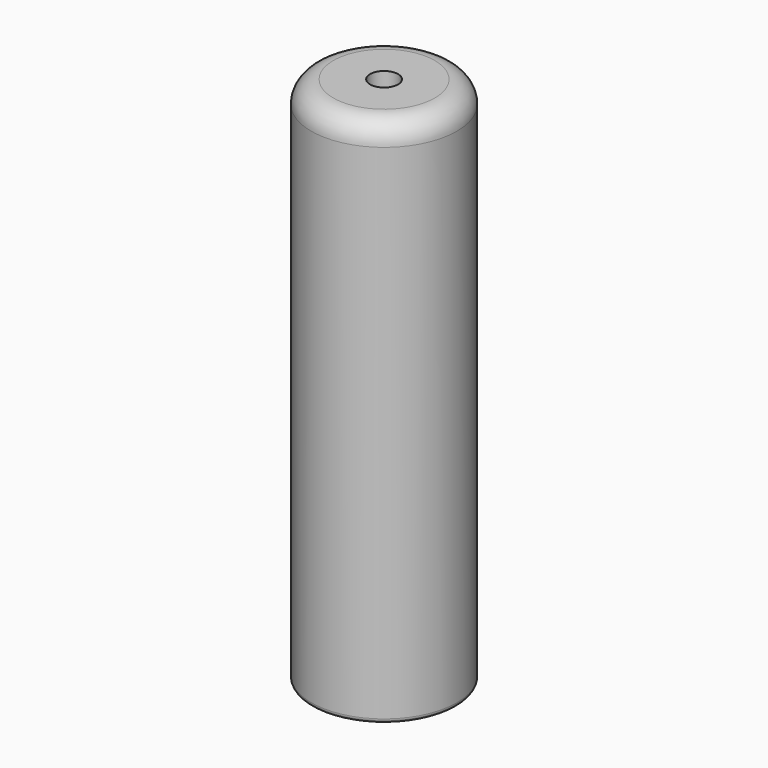
from build123d import *

# Parameters (mm, degrees)
F0_R     = 16.5
F0_R_2   = 14.5
F1_DEPTH = 120
F2_R     = 14.5
F3_DEPTH = 5
F5_R     = 5
F6_R     = 1
F4_R     = 3.175
F7_DEPTH = 25


with BuildPart() as f1:
    # F0 (on Top) → F1 (new body)
    with BuildSketch(Plane.XY):
        Circle(F0_R)
        Circle(F0_R_2, mode=Mode.SUBTRACT)
    extrude(amount=F1_DEPTH)

    # F2 (on face) → F3 (join)
    with BuildSketch(Plane.XY.offset(120)):
        Circle(F2_R)
    extrude(amount=-F3_DEPTH)

    # F5
    f5_edges = [f1.edges().sort_by_distance(p)[0] for p in [
        (-16.5, 0, 120),
    ]]
    fillet(f5_edges, radius=F5_R)

    # F6
    f6_edges = [f1.edges().sort_by_distance(p)[0] for p in [
        (-16.5, 0, 0),
    ]]
    fillet(f6_edges, radius=F6_R)

    # F4 (on face) → F7 (cut)
    with BuildSketch(Plane.XY.offset(120)):
        Circle(F4_R)
    extrude(amount=-F7_DEPTH, mode=Mode.SUBTRACT)


solid = f1.part
